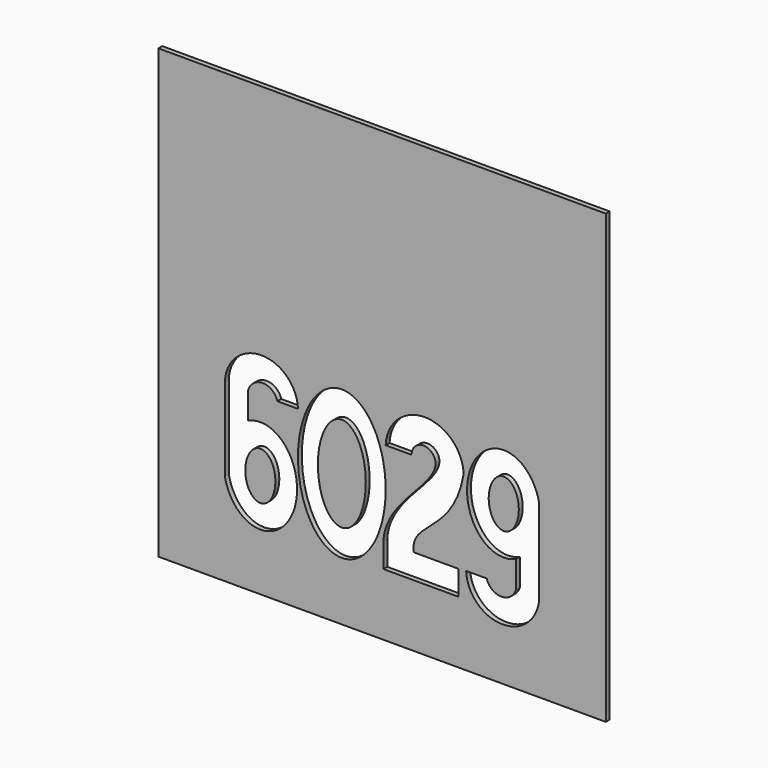
from build123d import *

# Parameters (mm, degrees)
F0_W     = 292.1
F0_H     = 292.1
F1_DEPTH = 3.175


with BuildPart() as f1:
    # F0 (on Front) → F1 (new body)
    with BuildSketch(Plane.XZ):
        with Locations((-40.1574712923, 1.9364418507)):
            Rectangle(F0_W, F0_H)
        with BuildLine():
            ThreePointArc((-142.7557298629, -29.5373028781), (-118.8940867618, -6.520460227), (-95.0324436608, -29.5373028781))
            Line((-95.0324436608, -29.5373028781), (-108.4827767409, -29.5373028781))
            ThreePointArc((-108.4827767409, -29.5373028781), (-118.0494302176, -22.2060663534), (-127.6160836943, -29.5373028781))
            Line((-127.6160836943, -29.5373028781), (-127.6160836943, -46.9478685959))
            add(Edge.make_bspline(
                [(-142.7557298629, -83.987326965), (-126.9738204318, -160.3293840028), (-98.4015956376, -90.4268434154), (-69.8293708434, -20.5243028281), (-127.6160836943, -46.9478685959)],
                knots=[4.9726967666, 4.9726967666, 4.9726967666, 7.3692535387, 7.3692535387, 9.7658103108, 9.7658103108, 9.7658103108], degree=2, weights=[1, 0.3639618282, 1, 0.3639618282, 1]))
            Line((-142.7557298629, -83.987326965), (-142.7557298629, -29.5373028781))
        make_face(mode=Mode.SUBTRACT)
        with BuildLine():
            add(Edge.make_bspline(
                [(-66.4248388269, -105.906184584), (-16.8258911035, -105.906184584), (-41.6253649652, -33.2520364982), (-66.4248388269, 39.4021115876), (-91.2243126886, -33.2520364982), (-116.0237865503, -105.906184584), (-66.4248388269, -105.906184584)],
                knots=[0, 0, 0, 2.0943951024, 2.0943951024, 4.1887902048, 4.1887902048, 6.2831853072, 6.2831853072, 6.2831853072], degree=2, weights=[1, 0.5, 1, 0.5, 1, 0.5, 1]))
        make_face(mode=Mode.SUBTRACT)
        with BuildLine():
            ThreePointArc((-5.2426088433, -31.8500286278), (-13.0815814728, -24.0110559984), (-20.9205541022, -31.8500286278))
            Line((-20.9205541022, -31.8500286278), (-37.7822094142, -31.8500286278))
            ThreePointArc((-37.7822094142, -31.8500286278), (-12.3350775563, -7.4090032919), (13.1120543017, -31.8500286278))
            add(Edge.make_bspline(
                [(13.1120543017, -31.8500286278), (6.6114428313, -69.7065332751), (-22.450112245, -69.0585513461), (-19.3909995049, -87.4132206957)],
                knots=[0, 0, 0, 0, 64.3717082228, 64.3717082228, 64.3717082228, 64.3717082228], degree=3))
            Line((-19.3909995049, -87.4132206957), (9.6705608896, -87.4132206957))
            Line((9.6705608896, -87.4132206957), (9.6705608896, -103.4735581493))
            Line((9.6705608896, -103.4735581493), (-39.2752269973, -103.4735581493))
            Line((-39.2752269973, -103.4735581493), (-39.2752269973, -87.4132206957))
            add(Edge.make_bspline(
                [(-39.2752269973, -87.4132206957), (-37.9446880513, -62.5160173481), (-5.6249974927, -45.9984192894), (-5.2426088433, -31.8500286278)],
                knots=[0, 0, 0, 0, 65.1574048837, 65.1574048837, 65.1574048837, 65.1574048837], degree=3))
        make_face(mode=Mode.SUBTRACT)
        with BuildLine():
            ThreePointArc((62.4407868077, -86.9517425749), (38.5791437066, -109.9685852259), (14.7175006056, -86.9517425749))
            Line((14.7175006056, -86.9517425749), (28.1678336858, -86.9517425749))
            ThreePointArc((28.1678336858, -86.9517425749), (37.7344871624, -94.2829790995), (47.3011406391, -86.9517425749))
            Line((47.3011406391, -86.9517425749), (47.3011406391, -69.541176857))
            add(Edge.make_bspline(
                [(62.4407868077, -32.5017184879), (46.6588773766, 43.8403385498), (18.0866525824, -26.0622020375), (-10.4855722118, -95.9647426249), (47.3011406391, -69.541176857)],
                knots=[4.9726967666, 4.9726967666, 4.9726967666, 7.3692535387, 7.3692535387, 9.7658103108, 9.7658103108, 9.7658103108], degree=2, weights=[1, 0.3639618282, 1, 0.3639618282, 1]))
            Line((62.4407868077, -32.5017184879), (62.4407868077, -86.9517425749))
        make_face(mode=Mode.SUBTRACT)
    extrude(amount=F1_DEPTH)


with BuildPart() as f1b:
    # F0 (on Front) → F1, piece 2 (new body)
    with BuildSketch(Plane.XZ):
        with BuildLine():
            add(Edge.make_bspline(
                [(-66.4248388269, -88.443591274), (-39.3299198243, -88.443591274), (-52.8773793256, -41.9833331532), (-66.4248388269, 4.4769249675), (-79.9722983282, -41.9833331532), (-93.5197578295, -88.443591274), (-66.4248388269, -88.443591274)],
                knots=[0, 0, 0, 2.0943951024, 2.0943951024, 4.1887902048, 4.1887902048, 6.2831853072, 6.2831853072, 6.2831853072], degree=2, weights=[1, 0.5, 1, 0.5, 1, 0.5, 1]))
        make_face()
    extrude(amount=F1_DEPTH)


with BuildPart() as f1c:
    # F0 (on Front) → F1, piece 3 (new body)
    with BuildSketch(Plane.XZ):
        with BuildLine():
            add(Edge.make_bspline(
                [(-119.6021508598, -91.6728613435), (-102.5956020408, -91.6728613435), (-111.0988764503, -68.2260265909), (-119.6021508598, -44.7791918383), (-128.1054252693, -68.2260265909), (-136.6086996787, -91.6728613435), (-119.6021508598, -91.6728613435)],
                knots=[0, 0, 0, 2.0943951024, 2.0943951024, 4.1887902048, 4.1887902048, 6.2831853072, 6.2831853072, 6.2831853072], degree=2, weights=[1, 0.5, 1, 0.5, 1, 0.5, 1]))
        make_face()
    extrude(amount=F1_DEPTH)


with BuildPart() as f1d:
    # F0 (on Front) → F1, piece 4 (new body)
    with BuildSketch(Plane.XZ):
        with BuildLine():
            add(Edge.make_bspline(
                [(39.2872078046, -24.8161841095), (22.2806589856, -24.8161841095), (30.7839333951, -48.2630188621), (39.2872078046, -71.7098536147), (47.7904822141, -48.2630188621), (56.2937566235, -24.8161841095), (39.2872078046, -24.8161841095)],
                knots=[0, 0, 0, 2.0943951024, 2.0943951024, 4.1887902048, 4.1887902048, 6.2831853072, 6.2831853072, 6.2831853072], degree=2, weights=[1, 0.5, 1, 0.5, 1, 0.5, 1]))
        make_face()
    extrude(amount=F1_DEPTH)


solid = Compound([f1.part, f1b.part, f1c.part, f1d.part])
